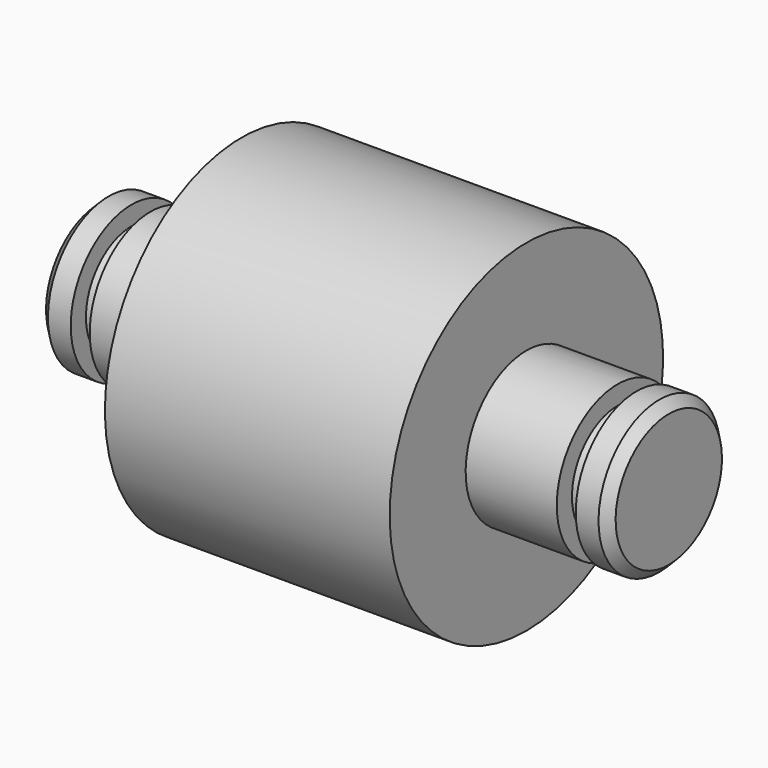
from build123d import *

# Parameters (mm, degrees)
F2_SIZE2 = 0.5
F2_SIZE  = 0.5


with BuildPart() as f1:
    # F0 (on Front) → F1 (revolve)
    with BuildSketch(Plane.XZ):
        Polygon((15, 0), (-15, 0), (-15, -4), (-13.3, -4), (-13.3, -3), (-12.3, -3), (-12.3, -4), (-7.5, -4), (-7.5, -9), (7.5, -9), (7.5, -4), (12.3, -4), (12.3, -3), (13.3, -3), (13.3, -4), (15, -4), align=None)
    revolve(axis=Axis((-12.237907, 0, 0), (-1, 0, 0)))

    # F2
    f2_edges = [f1.edges().sort_by_distance(p)[0] for p in [
        (15, 0, 4),
        (-15, 0, 4),
    ]]
    chamfer(f2_edges, length=F2_SIZE, length2=F2_SIZE2)


solid = f1.part
